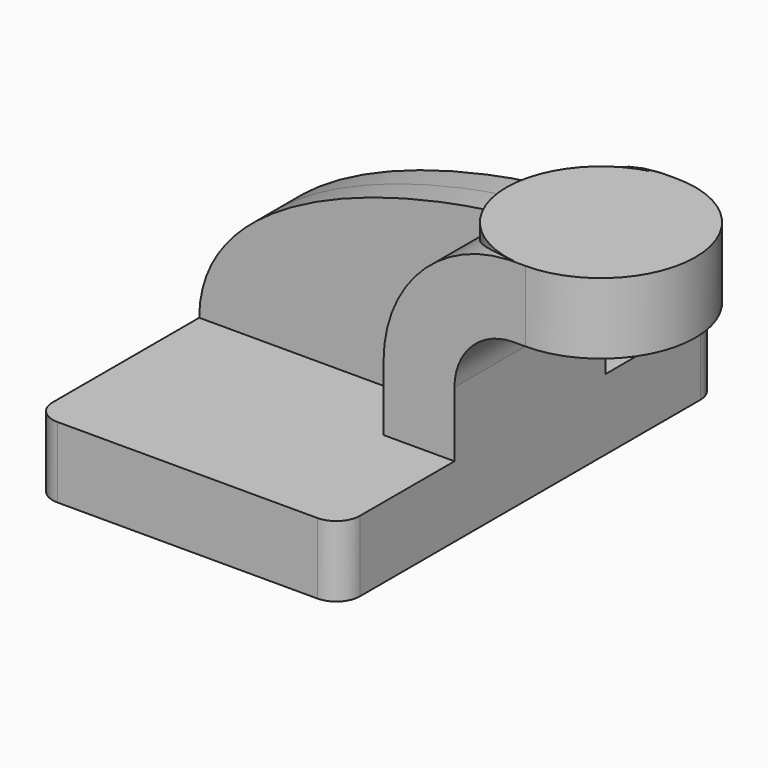
from build123d import *

# Parameters (mm, degrees)
F1_DEPTH = 63.5
F2_DEPTH = 25.4
F3_DEPTH = 7.9375
F0_W     = 25.4
F0_H     = 19.05
F5_R     = 6.35


with BuildPart() as f1:
    # F0 (on Front) → F1 (new body, symmetric)
    with BuildSketch(Plane.XZ):
        Polygon((-41.275, 9.525), (-41.275, -9.525), (41.275, -9.525), (41.275, 9.525), (22.225, 9.525), align=None)
    extrude(amount=F1_DEPTH, both=True)

    # F0 (on Front) → F2 (join, symmetric)
    with BuildSketch(Plane.XZ):
        with BuildLine():
            Line((22.225, 9.525), (41.275, 9.525))
            Line((41.275, 9.525), (41.275, 27.0002))
            ThreePointArc((41.275, 27.0002), (45.9246798487, 38.2255201513), (57.15, 42.8752))
            Line((57.15, 42.8752), (60.325, 42.8752))
            Line((60.325, 42.8752), (60.325, 61.9252))
            Line((60.325, 61.9252), (57.15, 61.9252))
            add(Edge.make_bspline(
                [(55.6525886726, 61.8930844368), (56.1562808572, 61.9065949604), (56.6554908346, 61.9172958156), (57.15, 61.9252)],
                knots=[109.9898733807, 109.9898733807, 109.9898733807, 109.9898733807, 111.5045361635, 111.5045361635, 111.5045361635, 111.5045361635], degree=3))
            ThreePointArc((55.6525886726, 61.8930844368), (31.9304370021, 51.1606897963), (22.225, 27.0002))
            Line((22.225, 27.0002), (22.225, 9.525))
        make_face()
    extrude(amount=F2_DEPTH, both=True)

    # F0 (on Front) → F3 (join, symmetric)
    with BuildSketch(Plane.XZ):
        with BuildLine():
            add(Edge.make_bspline(
                [(-41.275, 9.525), (-41.1359151521, 45.1149860549), (19.0761042936, 60.9119942548), (55.6525886726, 61.8930844368)],
                knots=[0, 0, 0, 0, 109.9898733807, 109.9898733807, 109.9898733807, 109.9898733807], degree=3))
            Line((-41.275, 9.525), (22.225, 9.525))
            Line((22.225, 9.525), (22.225, 27.0002))
            ThreePointArc((22.225, 27.0002), (31.9304370021, 51.1606897963), (55.6525886726, 61.8930844368))
        make_face()
    extrude(amount=F3_DEPTH, both=True)

    # F0 (on Front) → F4 (revolve)
    with BuildSketch(Plane.XZ):
        with Locations((73.025, 52.4002)):
            Rectangle(F0_W, F0_H)
    revolve(axis=Axis((60.325, 0, 52.3875), (0, 0, 1)))

    # F5
    f5_edges = [f1.edges().sort_by_distance(p)[0] for p in [
        (-41.275, 63.5, 0),
        (41.275, 63.5, 0),
        (-41.275, -63.5, 0),
        (41.275, -63.5, 0),
    ]]
    fillet(f5_edges, radius=F5_R)


solid = f1.part
